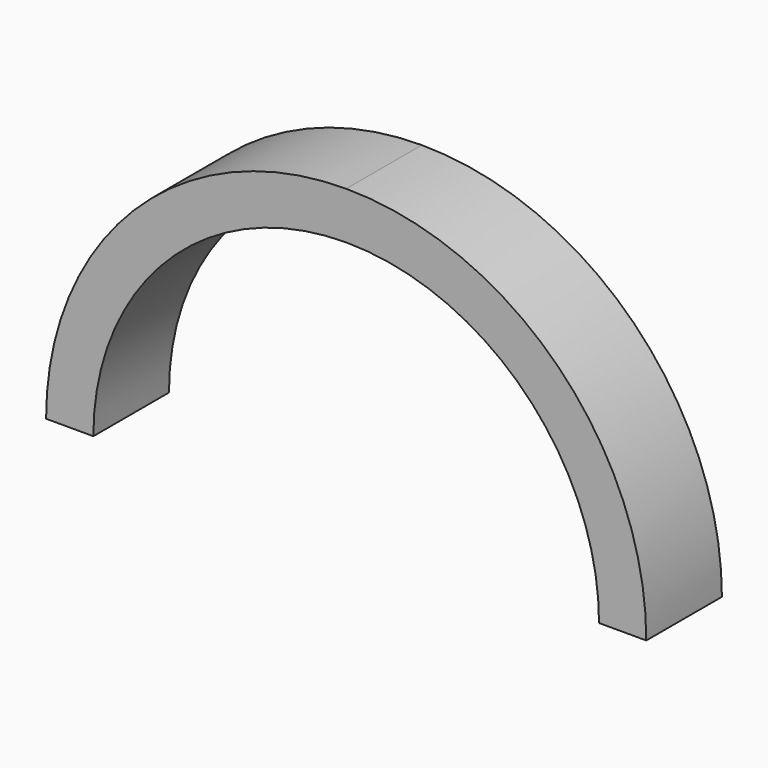
from build123d import *

# Parameters (mm, degrees)
F1_DEPTH      = 2
F1_DEPTH_BACK = 2


with BuildPart() as f1:
    # F0 (on Front) → F1 (new body, two sides)
    with BuildSketch(Plane.XZ) as f1_sk:
        with BuildLine():
            Line((0, 10.7), (0, 12.7))
            ThreePointArc((0, 12.7), (-8.980256, 8.980256), (-12.7, 0))
            Line((-12.7, 0), (-10.7, 0))
            ThreePointArc((-10.7, 0), (-7.566043, 7.566043), (0, 10.7))
        make_face()
    extrude(amount=F1_DEPTH)
    extrude(f1_sk.sketch, amount=-F1_DEPTH_BACK)

    # F2: F1 across face


with BuildPart() as f1_1:
    add(f1.part)
    add(f1.part.mirror(Plane(origin=(0, 0, 11.7), x_dir=(0, 1, 0), z_dir=(1, 0, 0))))


solid = f1_1.part
